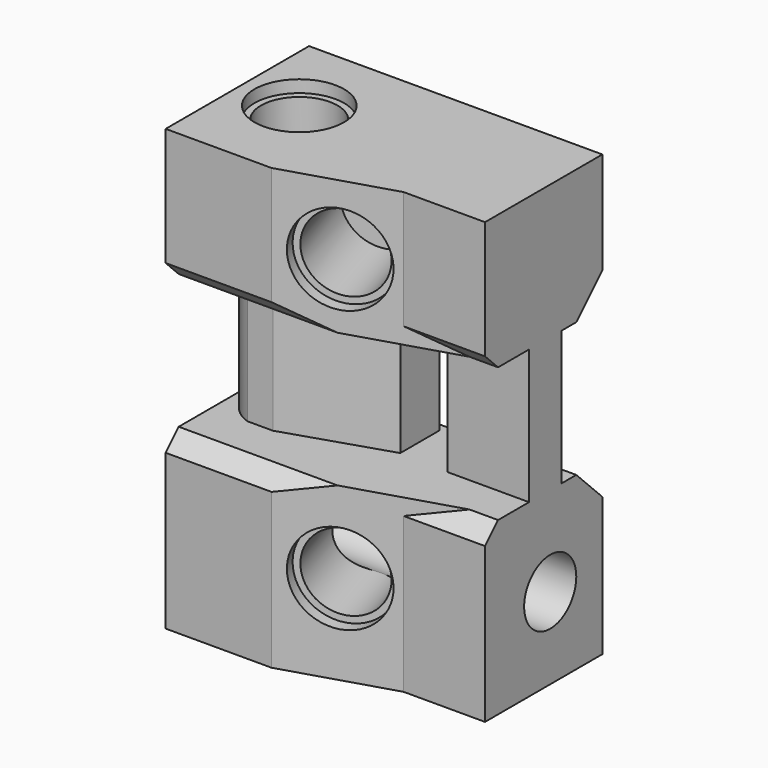
from build123d import *

# Parameters (mm, degrees)
SKETCH_R           = 2
PAD_DEPTH          = 18
POCKET_DEPTH       = 8.25
POCKET007002_DEPTH = 27.001
SKETCH003_R        = 2.35
POCKET007003_DEPTH = 6
SKETCH004_R        = 2.35
POCKET007004_DEPTH = 7
SKETCH005_R        = 2.75
POCKET007005_DEPTH = 0.75
SKETCH006_R        = 2.75
POCKET007006_DEPTH = 0.75
CHAMFER_SIZE       = 1
CHAMFER001_SIZE    = 2


with BuildPart() as part:
    # Sketch → Pad (new body)
    with BuildSketch(Plane.YZ):
        Polygon((2.125, 0), (2.125, -8.25), (5.625, -8.25), (5.625, -16.5), (2.125, -16.5), (2.125, -27), (13.125, -27), (13.125, -16.5), (10.625, -16.5), (10.625, -8.25), (13.125, -8.25), (13.125, 0), align=None)
        with Locations((9.125, -22)):
            Circle(SKETCH_R, mode=Mode.SUBTRACT)
    extrude(amount=PAD_DEPTH)

    # Sketch001 (on Face10 of Pad) → Pocket (cut)
    with BuildSketch(Plane.YX.offset(8.25)):
        with BuildLine():
            Line((2.125, 18), (7.5, 18))
            Line((7.5, 18), (7.5, 13))
            Line((7.5, 13), (10, 13))
            Line((10, 13), (10, 18))
            Line((10, 18), (10.625, 18))
            Line((10.625, 18), (10.625, 10))
            Line((10.625, 10), (7.625, 10))
            Line((7.625, 10), (5.6200366733, 3.7653591075))
            ThreePointArc((5.6200366733, 3.7653591075), (7.4780711036, 0.5550889122), (10.4850277531, 2.7268021481))
            Line((10.4850277531, 2.7268021481), (10.625, 4))
            Line((10.625, 4), (10.625, 0))
            Line((10.625, 0), (2.125, 0))
            Line((2.125, 0), (2.125, 18))
        make_face()
    extrude(amount=POCKET_DEPTH, mode=Mode.SUBTRACT)

    # Sketch002 (on Face8 of Pocket) → Pocket007002 (cut, through all)
    with BuildSketch(Plane.YX.offset(27)):
        Polygon((2.125, 18), (4.125, 18), (4.125, 13), (2.125, 6.5), align=None)
    extrude(amount=-POCKET007002_DEPTH, mode=Mode.SUBTRACT)

    # Sketch003 (on Face23 of Pocket007002) → Pocket007003 (cut)
    with BuildSketch(Plane(origin=(-0.0351351351, 0.1141891892, 0), x_dir=(0, 0, -1), z_dir=(0.2940858488, -0.9557790087, 0))):
        with Locations((4.25, 10.375)):
            Circle(SKETCH003_R)
        with Locations((21.5, 10.375)):
            Circle(SKETCH003_R)
    extrude(amount=-POCKET007003_DEPTH, mode=Mode.SUBTRACT)

    # Sketch004 (on Face5 of Pocket007003) → Pocket007004 (cut)
    with BuildSketch(Plane(origin=(0, 0, 0), x_dir=(0, -1, 0), z_dir=(0, 0, 1))):
        with Locations((-8, 3.5)):
            Circle(SKETCH004_R)
    extrude(amount=-POCKET007004_DEPTH, mode=Mode.SUBTRACT)

    # Sketch005 (on Face5 of Pocket007004) → Pocket007005 (cut)
    with BuildSketch(Plane(origin=(0, 0, 0), x_dir=(0, -1, 0), z_dir=(0, 0, 1))):
        with Locations((-8, 3.5)):
            Circle(SKETCH005_R)
    extrude(amount=-POCKET007005_DEPTH, mode=Mode.SUBTRACT)

    # Sketch006 (on Face4 of Pocket007005) → Pocket007006 (cut)
    with BuildSketch(Plane(origin=(-0.0351351351, 0.1141891892, 0), x_dir=(0, 0, -1), z_dir=(0.2940858488, -0.9557790087, 0))):
        with Locations((21.5, 10.375)):
            Circle(SKETCH006_R)
        with Locations((4.25, 10.375)):
            Circle(SKETCH006_R)
    extrude(amount=-POCKET007006_DEPTH, mode=Mode.SUBTRACT)

    # Chamfer
    chamfer_edges = [part.edges().sort_by_distance(p)[0] for p in [
        (3.25, 2.125, -16.5),
        (3.25, 2.125, -8.25),
        (15.5, 4.125, -8.25),
        (15.5, 4.125, -16.5),
    ]]
    chamfer(chamfer_edges, length=CHAMFER_SIZE)

    # Chamfer001
    chamfer001_edges = [part.edges().sort_by_distance(p)[0] for p in [
        (9, 13.125, -16.5),
        (9, 13.125, -8.25),
    ]]
    chamfer(chamfer001_edges, length=CHAMFER001_SIZE)


solid = part.part
